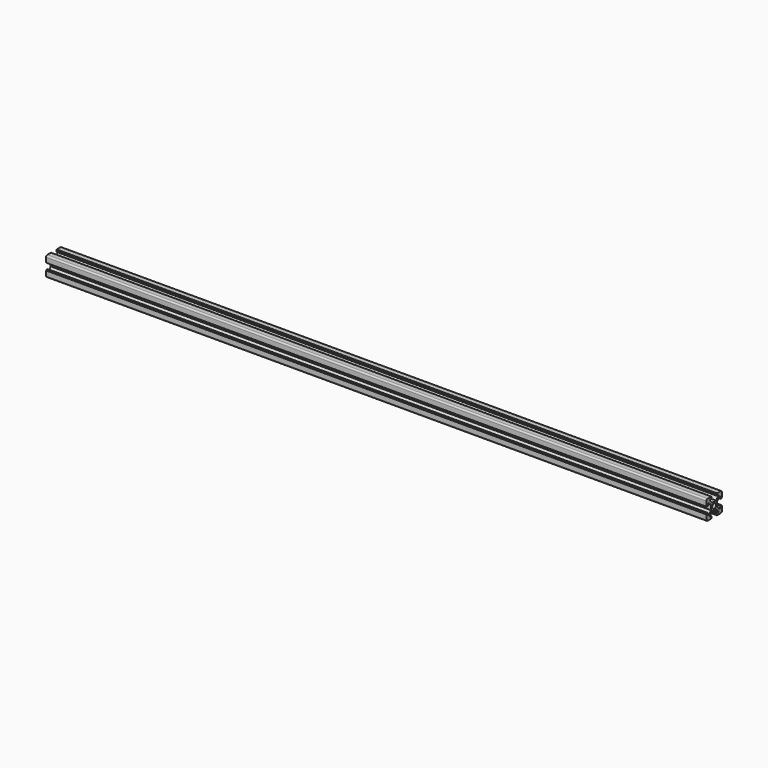
from build123d import *

# Parameters (mm, degrees)
F0_R     = 2.5
F1_DEPTH = 680


with BuildPart() as f1:
    # F0 (on Right) → F1 (new body)
    with BuildSketch(Plane.YZ):
        with BuildLine():
            Line((-3.587692, 9.987692), (-8.487692, 9.987692))
            ThreePointArc((-8.487692, 9.987692), (-9.548352, 9.548352), (-9.987692, 8.487692))
            Line((-9.987692, 8.487692), (-9.987692, 3.587692))
            Line((-9.987692, 3.587692), (-9.487692, 3.587692))
            Line((-9.487692, 3.587692), (-9.487692, 3.087692))
            Line((-9.487692, 3.087692), (-7.987692, 3.087692))
            Line((-7.987692, 3.087692), (-7.987692, 5.487692))
            Line((-7.987692, 5.487692), (-6.901906, 5.487692))
            Line((-6.901906, 5.487692), (-3.987692, 2.573479))
            Line((-3.987692, 2.573479), (-3.987692, -2.30087))
            Line((-3.987692, -2.30087), (-6.821314, -5.512308))
            Line((-6.821314, -5.512308), (-7.987692, -5.512308))
            Line((-7.987692, -5.512308), (-7.987692, -3.112308))
            Line((-7.987692, -3.112308), (-9.487692, -3.112308))
            Line((-9.487692, -3.112308), (-9.487692, -3.612308))
            Line((-9.487692, -3.612308), (-9.987692, -3.612308))
            Line((-9.987692, -3.612308), (-9.987692, -8.512308))
            ThreePointArc((-9.987692, -8.512308), (-9.548352, -9.572968), (-8.487692, -10.012308))
            Line((-8.487692, -10.012308), (-3.587692, -10.012308))
            Line((-3.587692, -10.012308), (-3.587692, -9.512308))
            Line((-3.587692, -9.512308), (-3.087692, -9.512308))
            Line((-3.087692, -9.512308), (-3.087692, -8.012308))
            Line((-3.087692, -8.012308), (-5.487692, -8.012308))
            Line((-5.487692, -8.012308), (-5.487692, -7.023746))
            Line((-5.487692, -7.023746), (-2.654071, -3.812308))
            Line((-2.654071, -3.812308), (2.398094, -3.812308))
            Line((2.398094, -3.812308), (5.512308, -6.926521))
            Line((5.512308, -6.926521), (5.512308, -8.012308))
            Line((5.512308, -8.012308), (3.112308, -8.012308))
            Line((3.112308, -8.012308), (3.112308, -9.512308))
            Line((3.112308, -9.512308), (3.612308, -9.512308))
            Line((3.612308, -9.512308), (3.612308, -10.012308))
            Line((3.612308, -10.012308), (8.512308, -10.012308))
            ThreePointArc((8.512308, -10.012308), (9.572968, -9.572968), (10.012308, -8.512308))
            Line((10.012308, -8.512308), (10.012308, -3.612308))
            Line((10.012308, -3.612308), (9.512308, -3.612308))
            Line((9.512308, -3.612308), (9.512308, -3.112308))
            Line((9.512308, -3.112308), (8.012308, -3.112308))
            Line((8.012308, -3.112308), (8.012308, -5.512308))
            Line((8.012308, -5.512308), (6.926521, -5.512308))
            Line((6.926521, -5.512308), (3.812308, -2.398094))
            Line((3.812308, -2.398094), (3.812308, 2.654071))
            Line((3.812308, 2.654071), (7.023746, 5.487692))
            Line((7.023746, 5.487692), (8.012308, 5.487692))
            Line((8.012308, 5.487692), (8.012308, 3.087692))
            Line((8.012308, 3.087692), (9.512308, 3.087692))
            Line((9.512308, 3.087692), (9.512308, 3.587692))
            Line((9.512308, 3.587692), (10.012308, 3.587692))
            Line((10.012308, 3.587692), (10.012308, 8.487692))
            ThreePointArc((10.012308, 8.487692), (9.572968, 9.548352), (8.512308, 9.987692))
            Line((8.512308, 9.987692), (3.612308, 9.987692))
            Line((3.612308, 9.987692), (3.612308, 9.487692))
            Line((3.612308, 9.487692), (3.112308, 9.487692))
            Line((3.112308, 9.487692), (3.112308, 7.987692))
            Line((3.112308, 7.987692), (5.512308, 7.987692))
            Line((5.512308, 7.987692), (5.512308, 6.821314))
            Line((5.512308, 6.821314), (2.30087, 3.987692))
            Line((2.30087, 3.987692), (-2.573479, 3.987692))
            Line((-2.573479, 3.987692), (-5.487692, 6.901906))
            Line((-5.487692, 6.901906), (-5.487692, 7.987692))
            Line((-5.487692, 7.987692), (-3.087692, 7.987692))
            Line((-3.087692, 7.987692), (-3.087692, 9.487692))
            Line((-3.087692, 9.487692), (-3.587692, 9.487692))
            Line((-3.587692, 9.487692), (-3.587692, 9.987692))
        make_face()
        with Locations((0.012308, -0.012308)):
            Circle(F0_R, mode=Mode.SUBTRACT)
    extrude(amount=F1_DEPTH)


solid = f1.part
